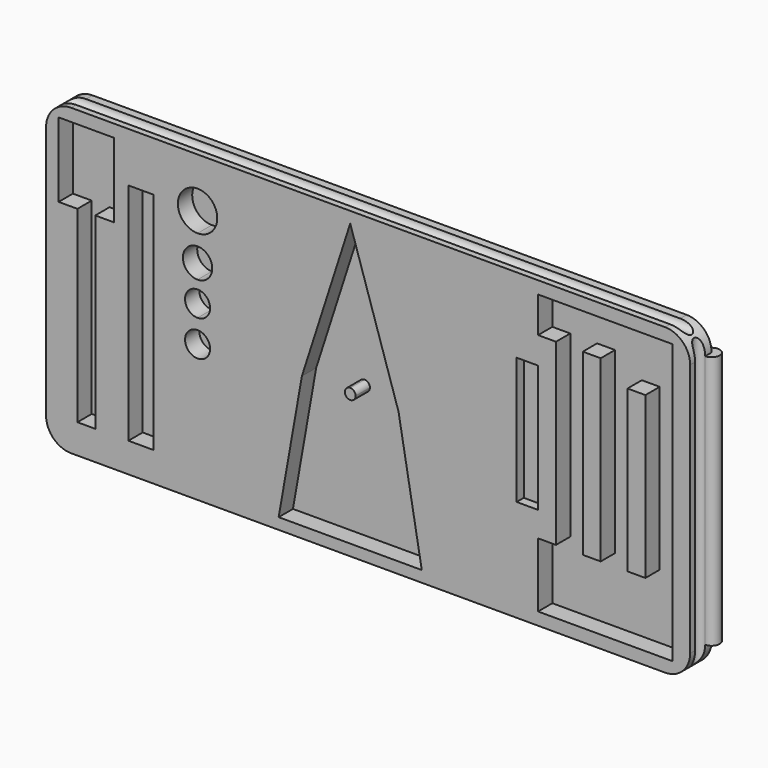
from build123d import *

# Parameters (mm, degrees)
F0_W       = 457.2
F0_H       = 215.9
F1_DEPTH   = 19.05
F2_W       = 12.7
F2_H       = 127
F4_DEPTH   = 12.7
F5_DEPTH   = 12.7
F3_W       = 17.78
F3_H       = 159.5658613952
F6_DEPTH   = 12.7
F7_DEPTH   = 12.7
F9_DEPTH   = 12.7
F10_DEPTH  = 12.7
F11_W      = 15.24
F11_H      = 90.17
F12_DEPTH  = 6.35
F13_R      = 17.78
F15_DEPTH  = 469.9
F17_DEPTH  = 215.9
F19_DEPTH  = 215.9
F21_DEPTH  = 457.2
F22_W      = 12.7
F22_H      = 12.7
F23_DEPTH  = 12.7
F17_FACE_W = 5.715
F17_FACE_H = 180.34
F19_FACE_W = 5.715
F19_FACE_H = 180.34


with BuildPart() as f1:
    # F0 (on Front) → F1 (new body)
    with BuildSketch(Plane.XZ):
        with Locations((90.6129051375, 6.4682941884)):
            Rectangle(F0_W, F0_H)
    extrude(amount=F1_DEPTH)

    # F2 (on face) → F4 (cut)
    with BuildSketch(Plane.XZ.offset(19.05)):
        Polygon((306.5129051375, -92.5917058116), (306.5129051375, 105.5282941884), (211.2562507391, 105.5282941884), (211.2562507391, 80.1282941884), (223.9562507391, 80.1282941884), (223.9562507391, -46.8717058116), (211.2562507391, -46.8717058116), (211.2562507391, -92.5917058116), align=None)
        with Locations((249.3562507391, 16.6282941884)):
            Rectangle(F2_W, F2_H, mode=Mode.SUBTRACT)
        with Locations((281.1062507391, 16.6282941884)):
            Rectangle(F2_W, F2_H, mode=Mode.SUBTRACT)
    extrude(amount=-F4_DEPTH, mode=Mode.SUBTRACT)

    # F3 (on face) → F5 (cut)
    with BuildSketch(Plane.XZ.offset(19.05)):
        Polygon((-129.0970948625, 105.5282941884), (-129.0970948625, 98.4169617295), (-129.0970948625, 52.6962941884), (-115.7620948625, 52.6962941884), (-109.4120948625, 52.6962941884), (-103.0620948625, 52.6962941884), (-89.7270948625, 52.6962941884), (-89.7270948625, 105.5282941884), (-93.0290948625, 105.5282941884), (-112.5538423657, 105.5282941884), align=None)
        Polygon((-109.4120948625, 52.6962941884), (-115.7620948625, 52.6962941884), (-115.7620948625, -80.6537058116), (-103.0620948625, -80.6537058116), (-103.0620948625, 52.6962941884), align=None)
    extrude(amount=-F5_DEPTH, mode=Mode.SUBTRACT)

    # F3 (on face) → F6 (cut)
    with BuildSketch(Plane.XZ.offset(19.05)):
        Polygon((-112.5538423657, 105.5282941884), (-129.0970948625, 105.5282941884), (-129.0970948625, 98.4169617295), (-129.0970948625, 52.6962941884), (-115.7620948625, 52.6962941884), (-109.4120948625, 52.6962941884), (-103.0620948625, 52.6962941884), (-89.7270948625, 52.6962941884), (-89.7270948625, 105.5282941884), (-93.0290948625, 105.5282941884), align=None)
        Polygon((-109.4120948625, 52.6962941884), (-115.7620948625, 52.6962941884), (-115.7620948625, -80.6537058116), (-103.0620948625, -80.6537058116), (-103.0620948625, 52.6962941884), align=None)
        with Locations((-70.6770948625, -0.6706365092)):
            Rectangle(F3_W, F3_H)
        with BuildLine():
            ThreePointArc((-30.4493419826, 65.1422941884), (-20.5710602494, 69.2340124552), (-16.4793419826, 79.1122941884))
            ThreePointArc((-16.4793419826, 79.1122941884), (-40.3276237158, 88.9905759216), (-30.4493419826, 65.1422941884))
        make_face()
        with BuildLine():
            ThreePointArc((-21.5593419826, -4.2136712), (-24.1631626979, 2.0725080848), (-30.4493419826, 4.6763288))
            ThreePointArc((-30.4493419826, 4.6763288), (-36.7355212674, -10.4998504847), (-21.5593419826, -4.2136712))
        make_face()
        with BuildLine():
            ThreePointArc((-21.5593419826, 21.1863288), (-24.1631626979, 27.4725080848), (-30.4493419826, 30.0763288))
            Line((-30.4493419826, 30.0763288), (-30.4493419826, 21.1863288))
            Line((-30.4493419826, 21.1863288), (-30.4493419826, 12.2963288))
            ThreePointArc((-30.4493419826, 12.2963288), (-24.1631626979, 14.9001495153), (-21.5593419826, 21.1863288))
        make_face()
        with BuildLine():
            Line((-30.4493419826, 21.1863288), (-30.4493419826, 30.0763288))
            ThreePointArc((-30.4493419826, 30.0763288), (-39.3393419826, 21.1863288), (-30.4493419826, 12.2963288))
            Line((-30.4493419826, 12.2963288), (-30.4493419826, 21.1863288))
        make_face()
        with BuildLine():
            ThreePointArc((-20.0353419826, 46.5863288), (-23.0855319633, 53.9501388193), (-30.4493419826, 57.0003288))
            Line((-30.4493419826, 57.0003288), (-30.4493419826, 46.5863288))
            Line((-30.4493419826, 46.5863288), (-30.4493419826, 36.1723288))
            ThreePointArc((-30.4493419826, 36.1723288), (-23.0855319633, 39.2225187807), (-20.0353419826, 46.5863288))
        make_face()
        with BuildLine():
            Line((-30.4493419826, 46.5863288), (-30.4493419826, 57.0003288))
            ThreePointArc((-30.4493419826, 57.0003288), (-40.8633419826, 46.5863288), (-30.4493419826, 36.1723288))
            Line((-30.4493419826, 36.1723288), (-30.4493419826, 46.5863288))
        make_face()
    extrude(amount=-F6_DEPTH, mode=Mode.SUBTRACT)

    # F3 (on face) → F7 (cut)
    with BuildSketch(Plane.XZ.offset(19.05)):
        Polygon((-112.5538423657, 105.5282941884), (-129.0970948625, 105.5282941884), (-129.0970948625, 98.4169617295), (-129.0970948625, 52.6962941884), (-115.7620948625, 52.6962941884), (-109.4120948625, 52.6962941884), (-103.0620948625, 52.6962941884), (-89.7270948625, 52.6962941884), (-89.7270948625, 105.5282941884), (-93.0290948625, 105.5282941884), align=None)
        Polygon((-109.4120948625, 52.6962941884), (-115.7620948625, 52.6962941884), (-115.7620948625, -80.6537058116), (-103.0620948625, -80.6537058116), (-103.0620948625, 52.6962941884), align=None)
        with Locations((-70.6770948625, -0.6706365092)):
            Rectangle(F3_W, F3_H)
        with BuildLine():
            ThreePointArc((-30.4493419826, 65.1422941884), (-20.5710602494, 69.2340124552), (-16.4793419826, 79.1122941884))
            ThreePointArc((-16.4793419826, 79.1122941884), (-40.3276237158, 88.9905759216), (-30.4493419826, 65.1422941884))
        make_face()
        with BuildLine():
            ThreePointArc((-21.5593419826, -4.2136712), (-24.1631626979, 2.0725080848), (-30.4493419826, 4.6763288))
            ThreePointArc((-30.4493419826, 4.6763288), (-36.7355212674, -10.4998504847), (-21.5593419826, -4.2136712))
        make_face()
        with BuildLine():
            ThreePointArc((-21.5593419826, 21.1863288), (-24.1631626979, 27.4725080848), (-30.4493419826, 30.0763288))
            Line((-30.4493419826, 30.0763288), (-30.4493419826, 21.1863288))
            Line((-30.4493419826, 21.1863288), (-30.4493419826, 12.2963288))
            ThreePointArc((-30.4493419826, 12.2963288), (-24.1631626979, 14.9001495153), (-21.5593419826, 21.1863288))
        make_face()
        with BuildLine():
            Line((-30.4493419826, 21.1863288), (-30.4493419826, 30.0763288))
            ThreePointArc((-30.4493419826, 30.0763288), (-39.3393419826, 21.1863288), (-30.4493419826, 12.2963288))
            Line((-30.4493419826, 12.2963288), (-30.4493419826, 21.1863288))
        make_face()
        with BuildLine():
            ThreePointArc((-20.0353419826, 46.5863288), (-23.0855319633, 53.9501388193), (-30.4493419826, 57.0003288))
            Line((-30.4493419826, 57.0003288), (-30.4493419826, 46.5863288))
            Line((-30.4493419826, 46.5863288), (-30.4493419826, 36.1723288))
            ThreePointArc((-30.4493419826, 36.1723288), (-23.0855319633, 39.2225187807), (-20.0353419826, 46.5863288))
        make_face()
        with BuildLine():
            Line((-30.4493419826, 46.5863288), (-30.4493419826, 57.0003288))
            ThreePointArc((-30.4493419826, 57.0003288), (-40.8633419826, 46.5863288), (-30.4493419826, 36.1723288))
            Line((-30.4493419826, 36.1723288), (-30.4493419826, 46.5863288))
        make_face()
    extrude(amount=-F7_DEPTH, mode=Mode.SUBTRACT)

    # F8 (on face) → F9 (cut)
    with BuildSketch(Plane.XZ.offset(19.05)):
        with BuildLine():
            Line((27.1129051375, -93.5315058116), (77.9129051375, -93.5315058116))
            Line((77.9129051375, -93.5315058116), (77.9129051375, -3.81))
            ThreePointArc((77.9129051375, -3.81), (74.1029051375, 0), (77.9129051375, 3.81))
            Line((77.9129051375, 3.81), (77.9129051375, 106.4934941884))
            Line((77.9129051375, 106.4934941884), (43.6050331584, 0))
            Line((43.6050331584, 0), (27.1129051375, -93.5315058116))
        make_face()
        with BuildLine():
            Line((77.9129051375, -3.81), (77.9129051375, -93.5315058116))
            Line((77.9129051375, -93.5315058116), (116.0129051375, -93.5315058116))
            Line((116.0129051375, -93.5315058116), (128.7129051375, -93.5315058116))
            Line((128.7129051375, -93.5315058116), (112.2207771166, 0))
            Line((112.2207771166, 0), (77.9129051375, 106.4934941884))
            Line((77.9129051375, 106.4934941884), (77.9129051375, 3.81))
            ThreePointArc((77.9129051375, 3.81), (80.6069819738, 2.6940768363), (81.7229051375, 0))
            ThreePointArc((81.7229051375, 0), (80.6069819738, -2.6940768363), (77.9129051375, -3.81))
        make_face()
    extrude(amount=-F9_DEPTH, mode=Mode.SUBTRACT)

    # F8 (on face) → F10 (cut)
    with BuildSketch(Plane.XZ.offset(19.05)):
        with BuildLine():
            Line((27.1129051375, -93.5315058116), (77.9129051375, -93.5315058116))
            Line((77.9129051375, -93.5315058116), (77.9129051375, -3.81))
            ThreePointArc((77.9129051375, -3.81), (74.1029051375, 0), (77.9129051375, 3.81))
            Line((77.9129051375, 3.81), (77.9129051375, 106.4934941884))
            Line((77.9129051375, 106.4934941884), (43.6050331584, 0))
            Line((43.6050331584, 0), (27.1129051375, -93.5315058116))
        make_face()
        with BuildLine():
            Line((77.9129051375, -3.81), (77.9129051375, -93.5315058116))
            Line((77.9129051375, -93.5315058116), (116.0129051375, -93.5315058116))
            Line((116.0129051375, -93.5315058116), (128.7129051375, -93.5315058116))
            Line((128.7129051375, -93.5315058116), (112.2207771166, 0))
            Line((112.2207771166, 0), (77.9129051375, 106.4934941884))
            Line((77.9129051375, 106.4934941884), (77.9129051375, 3.81))
            ThreePointArc((77.9129051375, 3.81), (80.6069819738, 2.6940768363), (81.7229051375, 0))
            ThreePointArc((81.7229051375, 0), (80.6069819738, -2.6940768363), (77.9129051375, -3.81))
        make_face()
    extrude(amount=-F10_DEPTH, mode=Mode.SUBTRACT)

    # F11 (on face) → F12 (cut)
    with BuildSketch(Plane.XZ.offset(19.05)):
        with Locations((203.6362507391, 15.9932941884)):
            Rectangle(F11_W, F11_H)
    extrude(amount=-F12_DEPTH, mode=Mode.SUBTRACT)

    # F13
    f13_edges = [f1.edges().sort_by_distance(p)[0] for p in [
        (-137.987095, -9.525, 114.418294),
        (319.212905, -9.525, 114.418294),
        (319.212905, -9.525, -101.481706),
        (-137.987095, -9.525, -101.481706),
    ]]
    fillet(f13_edges, radius=F13_R)

    # F14 (on face) → F15 (cut)
    with BuildSketch(Plane.YZ.offset(319.2129051375)):
        with BuildLine():
            ThreePointArc((-5.715, 114.4182941884), (-10.16, 118.8632941884), (-14.605, 114.4182941884))
            ThreePointArc((-14.605, 114.4182941884), (-10.16, 109.9732941884), (-5.715, 114.4182941884))
        make_face()
    extrude(amount=-F15_DEPTH, mode=Mode.SUBTRACT)

    # F16 (on face) → F17 (cut)
    with BuildSketch(Plane.XY.offset(114.4182941884)):
        with BuildLine():
            ThreePointArc((319.2129051375, -5.715), (316.0698154951, -13.3030896424), (323.6579051375, -10.16))
            ThreePointArc((323.6579051375, -10.16), (322.3559947799, -7.0169103576), (319.2129051375, -5.715))
        make_face()
    extrude(amount=-F17_DEPTH, mode=Mode.SUBTRACT)

    # F18 (on face) → F19 (cut)
    with BuildSketch(Plane.XY.offset(114.4182941884)):
        with BuildLine():
            ThreePointArc((-137.9870948625, -14.605), (-134.8440052201, -13.3030896424), (-133.5420948625, -10.16))
            ThreePointArc((-133.5420948625, -10.16), (-141.1301845049, -7.0169103576), (-137.9870948625, -14.605))
        make_face()
    extrude(amount=-F19_DEPTH, mode=Mode.SUBTRACT)

    # F20 (on face) → F21 (cut)
    with BuildSketch(Plane.YZ.offset(319.2129051375)):
        with BuildLine():
            ThreePointArc((-14.605, -101.4817058116), (-10.16, -105.9267058116), (-5.715, -101.4817058116))
            ThreePointArc((-5.715, -101.4817058116), (-10.16, -97.0367058116), (-14.605, -101.4817058116))
        make_face()
    extrude(amount=-F21_DEPTH, mode=Mode.SUBTRACT)

    # F22 (on face) → F23 (cut)
    with BuildSketch(Plane.XZ.offset(19.05)):
        with Locations((281.1062507391, 73.7782941884)):
            Rectangle(F22_W, F22_H)
    extrude(amount=-F23_DEPTH, mode=Mode.SUBTRACT)

    # F17_face (on face) → F24 (revolve)
    with BuildSketch(Plane(origin=(319.2129051375, -16.8275, 6.4682941884), x_dir=(0, 1, 0), z_dir=(1, 0, 0))):
        with Locations((13.97, 0)):
            Rectangle(F17_FACE_W, F17_FACE_H)
    revolve(axis=Axis((319.2129051375, 0, 6.4682941884), (0, 0, -1)))

    # F19_face (on face) → F25 (revolve)
    with BuildSketch(Plane(origin=(-137.9870948625, -2.8575, 6.4682941884), x_dir=(0, -1, 0), z_dir=(-1, 0, 0))):
        Rectangle(F19_FACE_W, F19_FACE_H)
    revolve(axis=Axis((-137.9870948625, 0, 6.4682941884), (0, 0, -1)))


solid = f1.part
